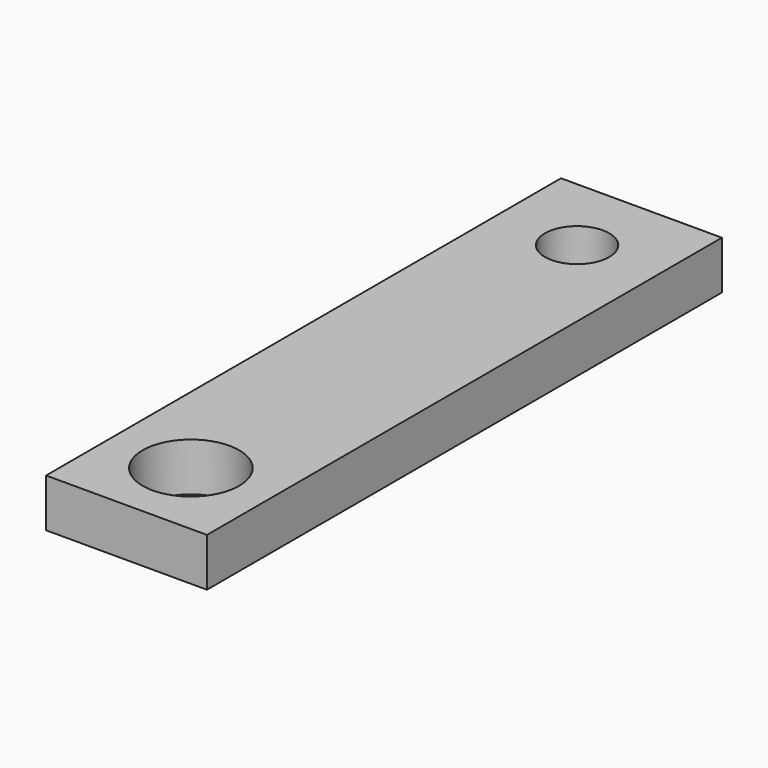
from build123d import *

# Parameters (mm, degrees)
F0_W     = 10
F0_H     = 40
F1_DEPTH = 3
F3_D     = 6
F4_D     = 4


with BuildPart() as f1:
    # F0 (on Top) → F1 (new body)
    with BuildSketch(Plane.XY):
        with Locations((-5, 20)):
            Rectangle(F0_W, F0_H)
    extrude(amount=F1_DEPTH)

    # F3 (through all)
    with Locations(Plane.XY.offset(3)):
        with Locations((-5, 5)):
            Hole(F3_D / 2)

    # F4 (through all)
    with Locations(Plane.XY.offset(3)):
        with Locations((-5, 35)):
            Hole(F4_D / 2)


solid = f1.part
